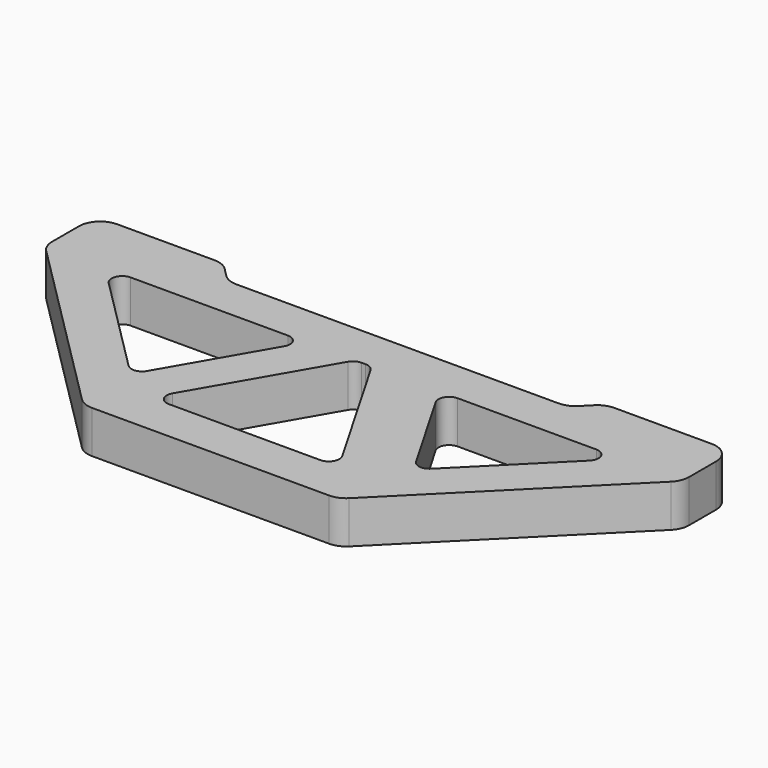
from build123d import *

# Parameters (mm, degrees)
F1_DEPTH = 12.7
F3_DEPTH = 12.701


with BuildPart() as f1:
    # F0 (on Top) → F1 (new body)
    with BuildSketch(Plane.XY):
        with BuildLine():
            Line((-53.430256, 31.75), (-82.55, 31.75))
            ThreePointArc((-82.55, 31.75), (-87.040128, 29.890128), (-88.9, 25.4))
            Line((-88.9, 25.4), (-88.9, 15.330256))
            ThreePointArc((-88.9, 15.330256), (-88.416635, 12.900216), (-87.040128, 10.840128))
            Line((-87.040128, 10.840128), (-33.609872, -42.590128))
            ThreePointArc((-33.609872, -42.590128), (-31.549784, -43.966635), (-29.119744, -44.45))
            Line((-29.119744, -44.45), (41.819744, -44.45))
            ThreePointArc((41.819744, -44.45), (44.249784, -43.966635), (46.309872, -42.590128))
            Line((46.309872, -42.590128), (99.740128, 10.840128))
            ThreePointArc((99.740128, 10.840128), (101.116635, 12.900216), (101.6, 15.330256))
            Line((101.6, 15.330256), (101.6, 25.4))
            ThreePointArc((101.6, 25.4), (99.740128, 29.890128), (95.25, 31.75))
            Line((95.25, 31.75), (66.130256, 31.75))
            ThreePointArc((66.130256, 31.75), (63.700216, 31.266635), (61.640128, 29.890128))
            Line((61.640128, 29.890128), (59.009872, 27.259872))
            ThreePointArc((59.009872, 27.259872), (56.949784, 25.883365), (54.519744, 25.4))
            Line((54.519744, 25.4), (-41.819744, 25.4))
            ThreePointArc((-41.819744, 25.4), (-44.249784, 25.883365), (-46.309872, 27.259872))
            Line((-46.309872, 27.259872), (-48.940128, 29.890128))
            ThreePointArc((-48.940128, 29.890128), (-51.000216, 31.266635), (-53.430256, 31.75))
        make_face()
    extrude(amount=F1_DEPTH)

    # F2 (on face) → F3 (cut, through all)
    with BuildSketch(Plane.XY.offset(12.7)):
        with BuildLine():
            ThreePointArc((5.708911, 12.7), (4.121411, 12.274631), (2.95928, 11.1125))
            Line((2.95928, 11.1125), (-19.037765, -26.9875))
            ThreePointArc((-19.037765, -26.9875), (-19.037765, -30.1625), (-16.288134, -31.75))
            Line((-16.288134, -31.75), (28.988134, -31.75))
            ThreePointArc((28.988134, -31.75), (31.737765, -30.1625), (31.737765, -26.9875))
            Line((31.737765, -26.9875), (9.74072, 11.1125))
            ThreePointArc((9.74072, 11.1125), (8.578589, 12.274631), (6.991089, 12.7))
            Line((6.991089, 12.7), (5.708911, 12.7))
        make_face()
        with BuildLine():
            ThreePointArc((34.487395, 12.7), (31.737765, 11.1125), (31.737765, 7.9375))
            Line((31.737765, 7.9375), (46.923048, -18.364181))
            ThreePointArc((46.923048, -18.364181), (49.258258, -19.924519), (51.917742, -19.021745))
            Line((51.917742, -19.021745), (78.219424, 7.279936))
            ThreePointArc((78.219424, 7.279936), (78.907677, 10.74002), (75.97436, 12.7))
            Line((75.97436, 12.7), (34.487395, 12.7))
        make_face()
        with BuildLine():
            ThreePointArc((-63.27436, 12.7), (-66.207677, 10.74002), (-65.519424, 7.279936))
            Line((-65.519424, 7.279936), (-35.73135, -22.508137))
            ThreePointArc((-35.73135, -22.508137), (-33.071866, -23.410911), (-30.736656, -21.850573))
            Line((-30.736656, -21.850573), (-13.538503, 7.9375))
            ThreePointArc((-13.538503, 7.9375), (-13.538503, 11.1125), (-16.288134, 12.7))
            Line((-16.288134, 12.7), (-63.27436, 12.7))
        make_face()
    extrude(amount=-F3_DEPTH, mode=Mode.SUBTRACT)


solid = f1.part
